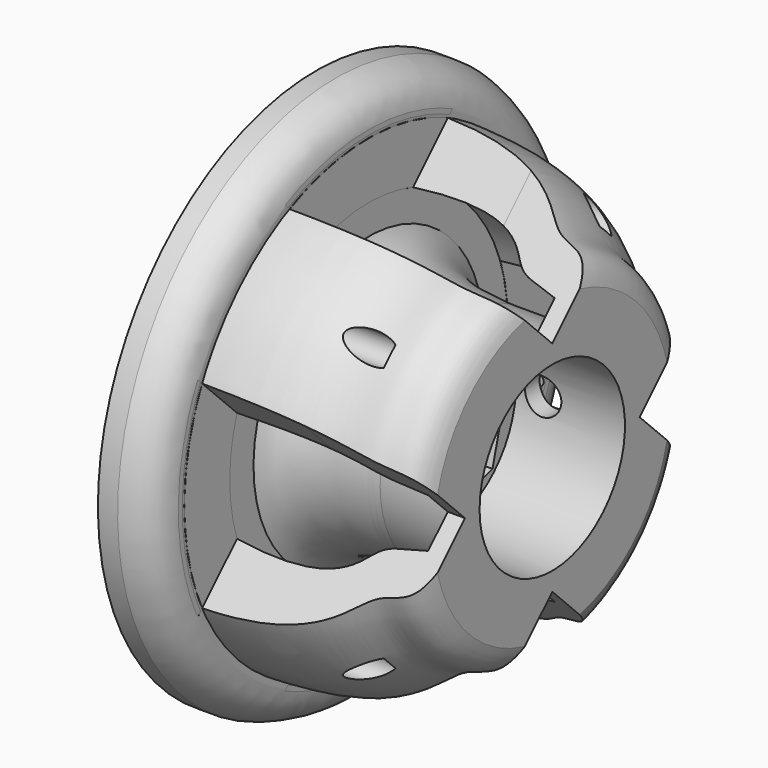
from build123d import *

# Parameters (mm, degrees)
SKETCH038_R             = 5
SKETCH038_R_2           = 2.5
PAD021_DEPTH            = 6
SKETCH037_R             = 3
SKETCH037_R_2           = 2.5
PAD022_DEPTH            = 4
SKETCH035_R             = 5
SKETCH035_R_2           = 2.5
PAD023_DEPTH            = 1
SKETCH036_R             = 1
PAD020_DEPTH            = 6
BODY015_PLACEMENT_ANGLE = 180
SKETCH026_R             = 5
SKETCH026_R_2           = 2.5
PAD015_DEPTH            = 6
SKETCH025_R             = 3
SKETCH025_R_2           = 2.5
PAD016_DEPTH            = 4
SKETCH023_R             = 5
SKETCH023_R_2           = 2.5
PAD017_DEPTH            = 1
BODY012_PLACEMENT_ANGLE = 180
SKETCH027_R             = 15
PAD018_DEPTH            = 10
POCKET008_DEPTH         = 2.5
POLARPATTERN005_COUNT   = 4
SKETCH028_R             = 0.75
HOLE002_DEPTH           = 25
POLARPATTERN004_COUNT   = 4
SKETCH031_R             = 4
POCKET007_DEPTH         = 7.501
POCKET006_DEPTH         = 4.5
BODY013_PLACEMENT_ANGLE = 90
SKETCH032_R             = 15
SKETCH032_R_2           = 5
PAD019_DEPTH            = 3
SKETCH034_W             = 13.145977
SKETCH034_H             = 13.32366
SKETCH034_W_2           = 13.587585
SKETCH034_H_2           = 12.587597
SKETCH034_W_3           = 12.700121
SKETCH034_H_3           = 12.14535
SKETCH034_W_4           = 12.51869
SKETCH034_H_4           = 12.534039
POCKET009_DEPTH         = 5
POCKET010_DEPTH         = 5.1
BODY014_PLACEMENT_ANGLE = 45


with BuildPart() as polea002:
    # Sketch038 → Pad021 (new body)
    with BuildSketch(Plane.YZ):
        Circle(SKETCH038_R)
        Circle(SKETCH038_R_2, mode=Mode.SUBTRACT)
    extrude(amount=PAD021_DEPTH)

    # Sketch037 (on Face3 of Pad021) → Pad022 (join)
    with BuildSketch(Plane(origin=(0, 0, 0), x_dir=(0, 1, 0), z_dir=(-1, 0, 0))):
        Circle(SKETCH037_R)
        Circle(SKETCH037_R_2, mode=Mode.SUBTRACT)
    extrude(amount=PAD022_DEPTH)

    # Sketch035 (on Face6 of Pad022) → Pad023 (join)
    with BuildSketch(Plane(origin=(-4, 0, 0), x_dir=(0, 1, 0), z_dir=(-1, 0, 0))):
        Circle(SKETCH035_R)
        Circle(SKETCH035_R_2, mode=Mode.SUBTRACT)
    extrude(amount=PAD023_DEPTH)

    # Sketch036 → Pad020 (join)
    with BuildSketch(Plane.XZ):
        with Locations((4.5, 0)):
            Circle(SKETCH036_R)
    extrude(amount=PAD020_DEPTH)


with BuildPart() as polea002_1:
    # Body015 placement: moved
    add(polea002.part.moved(Location((-47, 0, 0))).rotate(Axis((-47, 0, 0), (0, 0, 1)), BODY015_PLACEMENT_ANGLE))


with BuildPart() as polea001:
    # Sketch026 → Pad015 (new body)
    with BuildSketch(Plane.YZ):
        Circle(SKETCH026_R)
        Circle(SKETCH026_R_2, mode=Mode.SUBTRACT)
    extrude(amount=PAD015_DEPTH)

    # Sketch025 (on Face3 of Pad015) → Pad016 (join)
    with BuildSketch(Plane(origin=(0, 0, 0), x_dir=(0, 1, 0), z_dir=(-1, 0, 0))):
        Circle(SKETCH025_R)
        Circle(SKETCH025_R_2, mode=Mode.SUBTRACT)
    extrude(amount=PAD016_DEPTH)

    # Sketch023 (on Face6 of Pad016) → Pad017 (join)
    with BuildSketch(Plane(origin=(-4, 0, 0), x_dir=(0, 1, 0), z_dir=(-1, 0, 0))):
        Circle(SKETCH023_R)
        Circle(SKETCH023_R_2, mode=Mode.SUBTRACT)
    extrude(amount=PAD017_DEPTH)


with BuildPart() as polea001_1:
    # Body012 placement: moved
    add(polea001.part.moved(Location((-47, 0, 0))).rotate(Axis((-47, 0, 0), (0, 0, 1)), BODY012_PLACEMENT_ANGLE))


with BuildPart() as cut:
    # Sketch027 → Pad018 (new body)
    with BuildSketch(Plane.XY):
        Circle(SKETCH027_R)
    extrude(amount=PAD018_DEPTH)

    # Sketch029 (on Face3 of Pad018) → Pocket008 (cut)
    with BuildSketch(Plane.XY.offset(10)):
        with BuildLine():
            ThreePointArc((-5.26869, 1.578261), (0, -5.5), (5.26869, 1.578261))
            Line((2.107476, 12.131304), (5.26869, 1.578261))
            ThreePointArc((2.107476, 12.131304), (0, 13.7), (-2.107476, 12.131304))
            Line((-2.107476, 12.131304), (-5.26869, 1.578261))
        make_face()
    pocket008 = extrude(amount=-POCKET008_DEPTH, mode=Mode.SUBTRACT)

    # PolarPattern005: Pocket008 ×4 about axis
    polarpattern005_axis = Axis((0, 0, 10), (0, 0, 1))
    for i in range(1, POLARPATTERN005_COUNT):
        add(pocket008.rotate(polarpattern005_axis, i * 360 / POLARPATTERN005_COUNT), mode=Mode.SUBTRACT)

    # Sketch028 (on Face21 of PolarPattern005) → Hole002 (cut)
    with BuildSketch(Plane.XY.offset(7.5)):
        with Locations((0, 11)):
            Circle(SKETCH028_R)
    hole002 = extrude(amount=-HOLE002_DEPTH, mode=Mode.SUBTRACT)

    # PolarPattern004: Hole002 ×4 about axis
    polarpattern004_axis = Axis((0, 0, 7.5), (0, 0, 1))
    for i in range(1, POLARPATTERN004_COUNT):
        add(hole002.rotate(polarpattern004_axis, i * 360 / POLARPATTERN004_COUNT), mode=Mode.SUBTRACT)

    # Sketch031 (on Face25 of PolarPattern004) → Pocket007 (cut, through all)
    with BuildSketch(Plane.XY.offset(7.5)):
        Circle(SKETCH031_R)
    extrude(amount=-POCKET007_DEPTH, mode=Mode.SUBTRACT)

    # Sketch030 (on Face24 of Pocket007) → Pocket006 (cut)
    with BuildSketch(Plane.XY.offset(7.5)):
        Polygon((-2.396004, 4.15), (-4.792007, 0), (-2.396004, -4.15), (2.396004, -4.15), (4.792007, 0), (2.396004, 4.15), align=None)
    extrude(amount=-POCKET006_DEPTH, mode=Mode.SUBTRACT)


with BuildPart() as cut_1:
    # Body013 placement: moved
    add(cut.part.moved(Location((-50, 0, 0))).rotate(Axis((-50, 0, 0), (0, -1, 0)), BODY013_PLACEMENT_ANGLE))

    # Fusion: union polea001
    add(polea001_1.part)

    # Sketch032 (on Face2 of BaseFeature) → Pad019 (new body)
    with BuildSketch(Plane.YZ.offset(-50)):
        Circle(SKETCH032_R)
        Circle(SKETCH032_R_2, mode=Mode.SUBTRACT)
    extrude(amount=PAD019_DEPTH)

    # Sketch033 → Groove (revolve, cut)
    with BuildSketch(Plane.XY):
        with BuildLine():
            Line((-47.942081, 5.981576), (-51.68322, 5.981576))
            add(Edge.make_bspline(
                [(-57.111184, 7.910648), (-56.550388, 6.48202), (-54.607414, 6.045396), (-51.68322, 5.981576)],
                knots=[0, 0, 0, 0, 1, 1, 1, 1], degree=3))
            Line((-57.111184, 7.910648), (-57.111184, 9.55629))
            add(Edge.make_bspline(
                [(-57.111184, 9.55629), (-51.893528, 10.143392), (-50.147034, 7.654637), (-49.513927, 7.851118), (-47.942081, 7.479988)],
                knots=[0, 0, 0, 0, 0.5, 1, 1, 1, 1], degree=3))
            Line((-47.942081, 7.479988), (-47.942081, 5.981576))
        make_face()
        with BuildLine():
            Line((-46.850525, 7.479988), (-46.850525, 15.09907))
            Line((-46.850525, 15.09907), (-59.381622, 15.09907))
            add(Edge.make_bspline(
                [(-57.111184, 12.675807), (-56.9147, 14.684278), (-59.381622, 15.09907)],
                knots=[0, 0, 0, 1, 1, 1], degree=2))
            add(Edge.make_bspline(
                [(-57.111184, 12.675807), (-51.230697, 12.586986), (-49.404774, 8.658872), (-47.308979, 9.946912), (-46.850525, 7.479988)],
                knots=[0, 0, 0, 0, 0.5, 1, 1, 1, 1], degree=3))
        make_face()
    revolve(axis=Axis((0, 0, 0), (1, 0, 0)), mode=Mode.SUBTRACT)

    # Sketch034 (on Face19 of Groove) → Pocket009 (cut)
    with BuildSketch(Plane.YZ.offset(-47)):
        with Locations((-10.822988, 10.91183)):
            Rectangle(SKETCH034_W, SKETCH034_H)
        with Locations((11.043793, 10.543798)):
            Rectangle(SKETCH034_W_2, SKETCH034_H_2)
        with Locations((-10.60006, -10.322675)):
            Rectangle(SKETCH034_W_3, SKETCH034_H_3)
        with Locations((10.509345, -10.517019)):
            Rectangle(SKETCH034_W_4, SKETCH034_H_4)
    extrude(amount=-POCKET009_DEPTH, mode=Mode.SUBTRACT)

    # Sketch039 (on Face27 of Pocket009) → Pocket010 (cut)
    with BuildSketch(Plane.YZ.offset(-52)):
        with BuildLine():
            Line((-12.310427, 13.034594), (-4.25, 13.034594))
            Line((-4.25, 8.344713), (-4.25, 13.034594))
            ThreePointArc((-4.25, 8.344713), (-6.62181, 6.62181), (-8.344713, 4.25))
            Line((-8.344713, 4.25), (-12.310427, 4.25))
            Line((-12.310427, 4.25), (-12.310427, 13.034594))
        make_face()
        with BuildLine():
            Line((12.930001, 4.25), (12.930001, 12.839184))
            Line((12.930001, 12.839184), (4.25, 12.839184))
            Line((4.25, 8.344713), (4.25, 12.839184))
            ThreePointArc((8.344713, 4.25), (6.62181, 6.62181), (4.25, 8.344713))
            Line((8.344713, 4.25), (12.930001, 4.25))
        make_face()
        with BuildLine():
            Line((15.493432, -4.25), (15.493432, -13.166298))
            Line((15.493432, -13.166298), (4.25, -13.166298))
            Line((4.25, -13.166298), (4.25, -8.344713))
            ThreePointArc((4.25, -8.344713), (6.62181, -6.62181), (8.344713, -4.25))
            Line((8.344713, -4.25), (15.493432, -4.25))
        make_face()
        with BuildLine():
            Line((-14.387073, -4.25), (-14.387073, -12.923367))
            Line((-14.387073, -12.923367), (-4.25, -12.923367))
            Line((-4.25, -12.923367), (-4.25, -8.344713))
            ThreePointArc((-8.344713, -4.25), (-6.62181, -6.62181), (-4.25, -8.344713))
            Line((-14.387073, -4.25), (-8.344713, -4.25))
        make_face()
    extrude(amount=-POCKET010_DEPTH, mode=Mode.SUBTRACT)


with BuildPart() as cut_2:
    # Body014 placement: moved
    add(cut_1.part.rotate(Axis((0, 0, 0), (1, 0, 0)), BODY014_PLACEMENT_ANGLE))

    # Cut: cut polea002
    add(polea002_1.part, mode=Mode.SUBTRACT)


solid = cut_2.part
